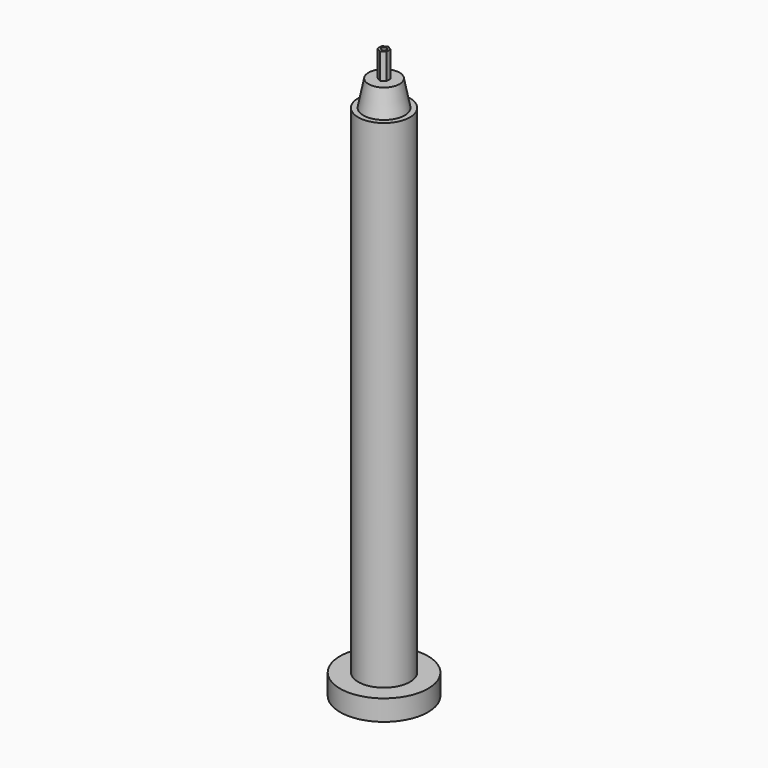
from build123d import *

# Parameters (mm, degrees)
F0_R     = 8.5
F1_DEPTH = 4
F2_R     = 5
F3_DEPTH = 100
F7_DEPTH = 5
F8_R     = 0.5
F9_DEPTH = 120


with BuildPart() as f1:
    # F0 (on Top) → F1 (new body)
    with BuildSketch(Plane.XY):
        Circle(F0_R)
    extrude(amount=F1_DEPTH)

    # F2 (on Top) → F3 (join)
    with BuildSketch(Plane.XY):
        Circle(F2_R)
    extrude(amount=F3_DEPTH)

    # F4 (on Right) → F5 (revolve)
    with BuildSketch(Plane.YZ):
        Polygon((3, 105), (0, 105), (0, 100), (4, 100), align=None)
    revolve(axis=Axis((0, 0, 102.5), (0, 0, -1)))

    # F6 (on face) → F7 (join)
    with BuildSketch(Plane.XY.offset(105)):
        Polygon((0.866025, -0.5), (0.866025, 0.5), (0, 1), (-0.866025, 0.5), (-0.866025, -0.5), (0, -1), align=None)
    extrude(amount=F7_DEPTH)

    # F8 (on face) → F9 (cut)
    with BuildSketch(Plane.XY.offset(110)):
        Circle(F8_R)
    extrude(amount=-F9_DEPTH, mode=Mode.SUBTRACT)


solid = f1.part
